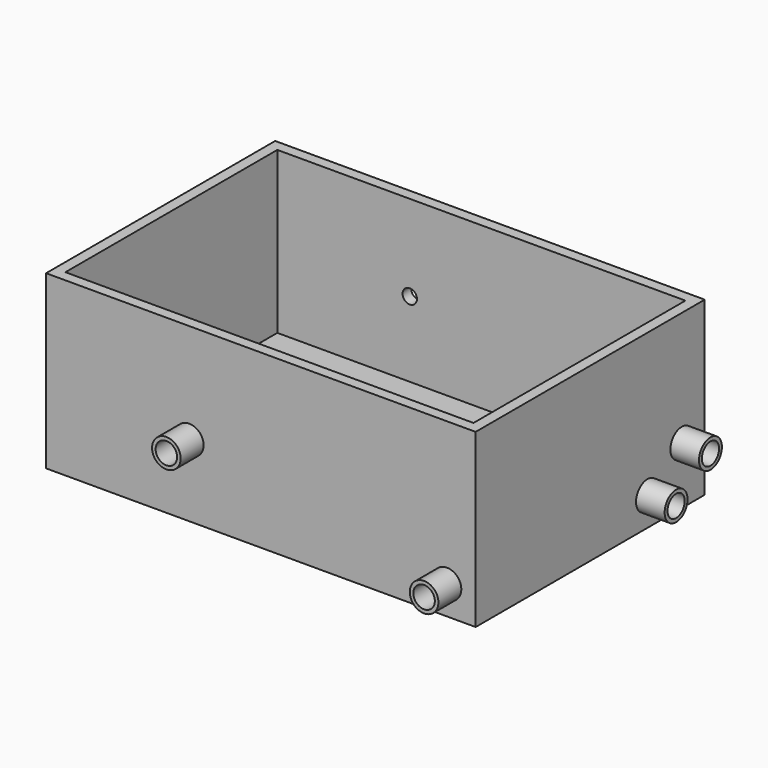
from build123d import *

# Parameters (mm, degrees)
F0_W      = 381
F0_H      = 254
F1_DEPTH  = 152.4
F2_T      = -9.525
F3_R      = 12.7
F3_R_2    = 9.525
F4_DEPTH  = 25.4
F5_R      = 9.525
F6_DEPTH  = 9.525
F7_R      = 12.7
F7_R_2    = 9.525
F8_DEPTH  = 25.4
F9_R      = 9.525
F10_DEPTH = 9.525
F11_R     = 6.35
F12_DEPTH = 25.4


with BuildPart() as f1:
    # F0 (on Top) → F1 (new body)
    with BuildSketch(Plane.XY):
        Rectangle(F0_W, F0_H)
    extrude(amount=F1_DEPTH)

    # F2
    f2_openings = [f1.faces().sort_by_distance(p)[0] for p in [
        (0, 0, 152.4),
    ]]
    offset(amount=F2_T, openings=f2_openings)

    # F3 (on face) → F4 (join)
    with BuildSketch(Plane.YZ.offset(190.5)):
        with Locations((63.5, 25.4)):
            Circle(F3_R)
        with Locations((63.5, 25.4)):
            Circle(F3_R_2, mode=Mode.SUBTRACT)
        with Locations((101.6, 50.8)):
            Circle(F3_R)
        with Locations((101.6, 50.8)):
            Circle(F3_R_2, mode=Mode.SUBTRACT)
    extrude(amount=F4_DEPTH)

    # F5 (on face) → F6 (cut, through all)
    with BuildSketch(Plane.YZ.offset(190.5)):
        with Locations((63.5, 25.4)):
            Circle(F5_R)
        with Locations((101.6, 50.8)):
            Circle(F5_R)
    extrude(amount=-F6_DEPTH, mode=Mode.SUBTRACT)

    # F7 (on face) → F8 (join)
    with BuildSketch(Plane.XZ.offset(127)):
        with Locations((-63.5, 63.5)):
            Circle(F7_R)
        with Locations((-63.5, 63.5)):
            Circle(F7_R_2, mode=Mode.SUBTRACT)
        with Locations((165.1, 25.4)):
            Circle(F7_R)
        with Locations((165.1, 25.4)):
            Circle(F7_R_2, mode=Mode.SUBTRACT)
    extrude(amount=F8_DEPTH)

    # F9 (on face) → F10 (cut, through all)
    with BuildSketch(Plane.XZ.offset(127)):
        with Locations((-63.5, 63.5)):
            Circle(F9_R)
        with Locations((165.1, 25.4)):
            Circle(F9_R)
    extrude(amount=-F10_DEPTH, mode=Mode.SUBTRACT)

    # F11 (on face) → F12 (cut)
    with BuildSketch(Plane.XZ.offset(-117.475)):
        with Locations((-63.5, 76.2)):
            Circle(F11_R)
    extrude(amount=-F12_DEPTH, mode=Mode.SUBTRACT)


solid = f1.part
